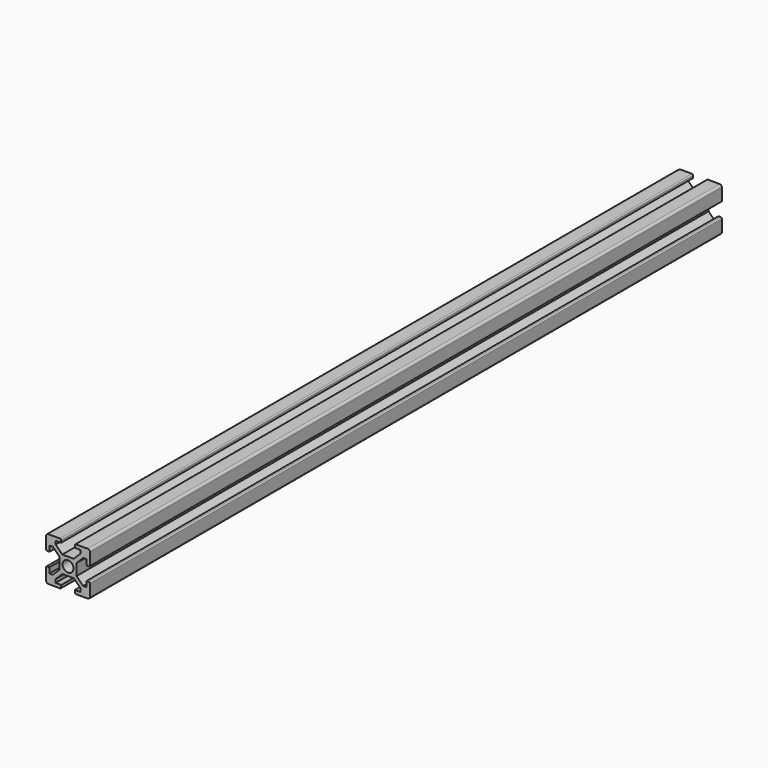
from build123d import *

# Parameters (mm, degrees)
F0_R     = 2.5
F1_DEPTH = 360


with BuildPart() as f1:
    # F0 (on Front) → F1 (new body)
    with BuildSketch(Plane.XZ):
        with BuildLine():
            ThreePointArc((-3.1, 9.5), (-3.246447, 9.853553), (-3.6, 10))
            Line((-3.6, 10), (-9, 10))
            ThreePointArc((-9, 10), (-9.707107, 9.707107), (-10, 9))
            Line((-10, 9), (-10, 3.6))
            ThreePointArc((-10, 3.6), (-9.853553, 3.246447), (-9.5, 3.1))
            Line((-9.5, 3.1), (-8.457938, 3.1))
            Line((-8.457938, 3.1), (-8.457938, 5.63))
            Line((-8.457938, 5.63), (-6.915877, 5.63))
            Line((-6.915877, 5.63), (-3.9, 2.614123))
            Line((-3.9, 2.614123), (-3.9, -2.614123))
            Line((-3.9, -2.614123), (-6.915877, -5.63))
            Line((-6.915877, -5.63), (-8.457938, -5.63))
            Line((-8.457938, -5.63), (-8.457938, -3.1))
            Line((-8.457938, -3.1), (-9.5, -3.1))
            ThreePointArc((-9.5, -3.1), (-9.853553, -3.246447), (-10, -3.6))
            Line((-10, -3.6), (-10, -9))
            ThreePointArc((-10, -9), (-9.707107, -9.707107), (-9, -10))
            Line((-9, -10), (-3.6, -10))
            ThreePointArc((-3.6, -10), (-3.246447, -9.853553), (-3.1, -9.5))
            Line((-3.1, -9.5), (-3.1, -8.457938))
            Line((-3.1, -8.457938), (-5.63, -8.457938))
            Line((-5.63, -8.457938), (-5.63, -6.915877))
            Line((-5.63, -6.915877), (-2.614123, -3.9))
            Line((-2.614123, -3.9), (2.614123, -3.9))
            Line((2.614123, -3.9), (5.63, -6.915877))
            Line((5.63, -6.915877), (5.63, -8.457938))
            Line((5.63, -8.457938), (3.1, -8.457938))
            Line((3.1, -8.457938), (3.1, -9.5))
            ThreePointArc((3.1, -9.5), (3.246447, -9.853553), (3.6, -10))
            Line((3.6, -10), (9, -10))
            ThreePointArc((9, -10), (9.707107, -9.707107), (10, -9))
            Line((10, -9), (10, -3.6))
            ThreePointArc((10, -3.6), (9.853553, -3.246447), (9.5, -3.1))
            Line((9.5, -3.1), (8.457938, -3.1))
            Line((8.457938, -3.1), (8.457938, -5.63))
            Line((8.457938, -5.63), (6.915877, -5.63))
            Line((6.915877, -5.63), (3.9, -2.614123))
            Line((3.9, -2.614123), (3.9, 2.614123))
            Line((3.9, 2.614123), (6.915877, 5.63))
            Line((6.915877, 5.63), (8.457938, 5.63))
            Line((8.457938, 5.63), (8.457938, 3.1))
            Line((8.457938, 3.1), (9.5, 3.1))
            ThreePointArc((9.5, 3.1), (9.853553, 3.246447), (10, 3.6))
            Line((10, 3.6), (10, 9))
            ThreePointArc((10, 9), (9.707107, 9.707107), (9, 10))
            Line((9, 10), (3.6, 10))
            ThreePointArc((3.6, 10), (3.246447, 9.853553), (3.1, 9.5))
            Line((3.1, 9.5), (3.1, 8.457938))
            Line((3.1, 8.457938), (5.63, 8.457938))
            Line((5.63, 8.457938), (5.63, 6.915877))
            Line((5.63, 6.915877), (2.614123, 3.9))
            Line((2.614123, 3.9), (-2.614123, 3.9))
            Line((-2.614123, 3.9), (-5.63, 6.915877))
            Line((-5.63, 6.915877), (-5.63, 8.457938))
            Line((-5.63, 8.457938), (-3.1, 8.457938))
            Line((-3.1, 8.457938), (-3.1, 9.5))
        make_face()
        Circle(F0_R, mode=Mode.SUBTRACT)
    extrude(amount=-F1_DEPTH)


solid = f1.part
